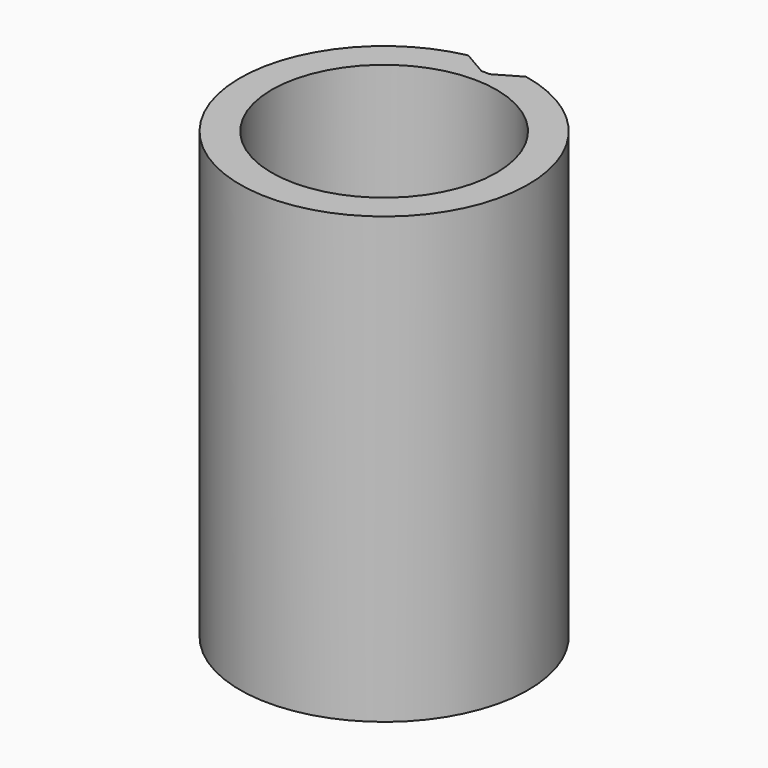
from build123d import *

# Parameters (mm, degrees)
F0_R     = 28.872243
F1_DEPTH = 114.3


with BuildPart() as f1:
    # F0 (on Top) → F1 (new body)
    with BuildSketch(Plane.XY):
        with BuildLine():
            ThreePointArc((16.699345, 71.255645), (24.115243, -2.066448), (31.531141, 71.255645))
            Line((31.531141, 71.255645), (25.186695, 67.577745))
            ThreePointArc((25.186695, 67.577745), (24.115243, 67.595343), (23.043791, 67.577745))
            Line((23.043791, 67.577745), (16.699345, 71.255645))
        make_face()
        with Locations((24.115243, 34.969625)):
            Circle(F0_R, mode=Mode.SUBTRACT)
        with BuildLine():
            ThreePointArc((16.699345, 71.255645), (24.115243, -2.066448), (31.531141, 71.255645))
            Line((31.531141, 71.255645), (25.186695, 67.577745))
            ThreePointArc((25.186695, 67.577745), (24.115243, 67.595343), (23.043791, 67.577745))
            Line((23.043791, 67.577745), (16.699345, 71.255645))
        make_face()
        with Locations((24.115243, 34.969625)):
            Circle(F0_R, mode=Mode.SUBTRACT)
    extrude(amount=F1_DEPTH)


solid = f1.part
